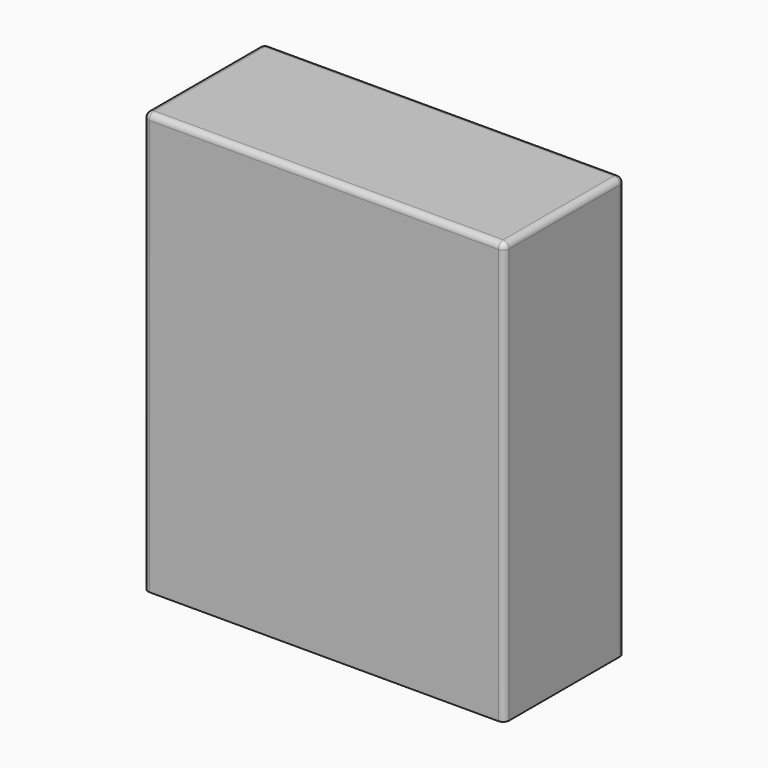
from build123d import *

# Parameters (mm, degrees)
F0_W     = 300
F0_H     = 350
F1_DEPTH = 125
F2_T     = -2.5
F3_R     = 5
F4_W     = 276.946939528
F4_H     = 325.1978382468
F5_DEPTH = 120


with BuildPart() as f1:
    # F0 (on Front) → F1 (new body)
    with BuildSketch(Plane.XZ):
        with Locations((95.7486510277, 99.5076403022)):
            Rectangle(F0_W, F0_H)
    extrude(amount=-F1_DEPTH)

    # F2 (hollow: no face is removed)
    offset(amount=F2_T, mode=Mode.SUBTRACT)

    # F3
    f3_edges = [f1.edges().sort_by_distance(p)[0] for p in [
        (245.748651, 62.5, 274.50764),
        (95.748651, 125, 274.50764),
        (245.748651, 125, 99.50764),
        (-54.251349, 125, 99.50764),
        (-54.251349, 62.5, 274.50764),
        (95.748651, 0, 274.50764),
        (245.748651, 0, 99.50764),
        (-54.251349, 0, 99.50764),
    ]]
    fillet(f3_edges, radius=F3_R)

    # F4 (on face) → F5 (cut)
    with BuildSketch(Plane(origin=(0, 125, 0), x_dir=(-1, 0, 0), z_dir=(0, 1, 0))):
        with Locations((-94.6279279888, 98.5161848366)):
            Rectangle(F4_W, F4_H)
    extrude(amount=-F5_DEPTH, mode=Mode.SUBTRACT)


solid = f1.part
